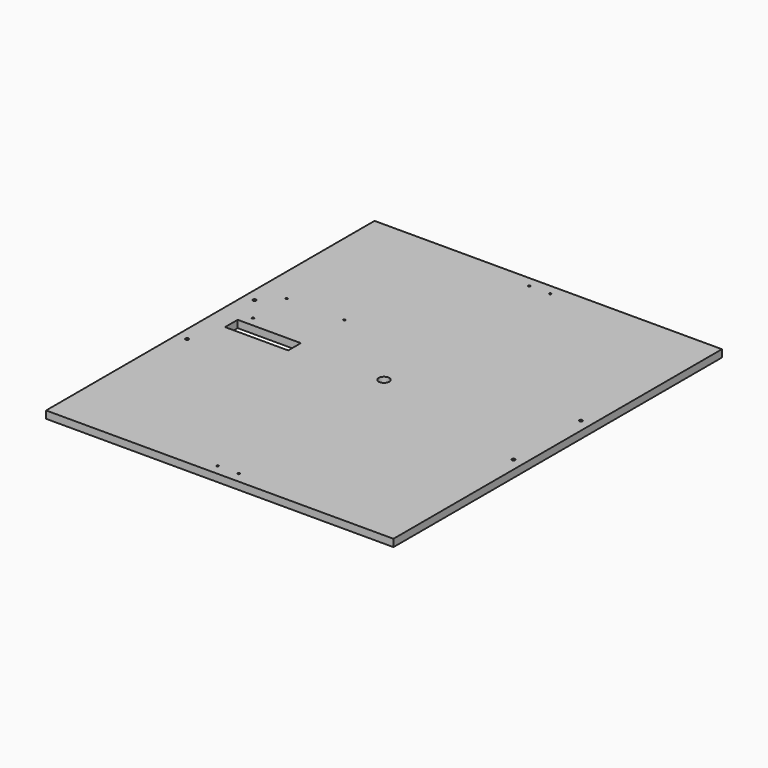
from build123d import *

# Parameters (mm, degrees)
F0_W      = 330
F0_H      = 390
F1_DEPTH  = 7
F2_R      = 1.5
F3_DEPTH  = 25
F4_R      = 1.5
F5_DEPTH  = 25
F7_DEPTH  = 5
F9_DEPTH  = 25
F10_R     = 5
F11_DEPTH = 25
F12_R     = 1
F13_DEPTH = 50
F14_R     = 1
F15_DEPTH = 5


with BuildPart() as f1:
    # F0 (on Top) → F1 (new body)
    with BuildSketch(Plane.XY):
        Rectangle(F0_W, F0_H)
    extrude(amount=F1_DEPTH)

    # F2 (on face) → F3 (cut)
    with BuildSketch(Plane.XY.offset(7)):
        with Locations((-155, 40)):
            Circle(F2_R)
        with Locations((-155, -40)):
            Circle(F2_R)
    extrude(amount=-F3_DEPTH, mode=Mode.SUBTRACT)

    # F4 (on face) → F5 (cut)
    with BuildSketch(Plane.XY.offset(7)):
        with Locations((155, 40)):
            Circle(F4_R)
        with Locations((155, -40)):
            Circle(F4_R)
    extrude(amount=-F5_DEPTH, mode=Mode.SUBTRACT)

    # F6 (on face) → F7 (cut)
    with BuildSketch(Plane.XY.offset(7)):
        with BuildLine():
            Line((-138, 56.771628), (-137, 56.771628))
            ThreePointArc((-137, 56.771628), (-138.707107, 57.478734), (-138, 55.771628))
            Line((-138, 55.771628), (-138, 56.771628))
        make_face()
        with BuildLine():
            ThreePointArc((-136.845755, 16.771628), (-137.195464, 17.531314), (-138, 17.75966))
            Line((-138, 17.75966), (-138, 16.771628))
            Line((-138, 16.771628), (-138.845755, 16.771628))
            ThreePointArc((-138.845755, 16.771628), (-137.845755, 15.771628), (-136.845755, 16.771628))
        make_face()
        with BuildLine():
            Line((-138, 16.771628), (-138, 17.75966))
            ThreePointArc((-138, 17.75966), (-138.605441, 17.421918), (-138.845755, 16.771628))
            Line((-138.845755, 16.771628), (-138, 16.771628))
        make_face()
        with BuildLine():
            ThreePointArc((-138, 55.771628), (-137.292893, 56.064521), (-137, 56.771628))
            Line((-137, 56.771628), (-138, 56.771628))
            Line((-138, 56.771628), (-138, 55.771628))
        make_face()
        with BuildLine():
            ThreePointArc((-82, 56.771628), (-83, 57.771628), (-84, 56.771628))
            ThreePointArc((-84, 56.771628), (-83, 55.771628), (-82, 56.771628))
        make_face()
    extrude(amount=-F7_DEPTH, mode=Mode.SUBTRACT)

    # F8 (on face) → F9 (cut)
    with BuildSketch(Plane.XY.offset(7)):
        Polygon((-145, 7.5), (-145, 0), (-145, -7.5), (-85, -7.5), (-85, 7.5), align=None)
    extrude(amount=-F9_DEPTH, mode=Mode.SUBTRACT)

    # F10 (on face) → F11 (cut)
    with BuildSketch(Plane.XY.offset(7)):
        Circle(F10_R)
    extrude(amount=-F11_DEPTH, mode=Mode.SUBTRACT)

    # F12 (on face) → F13 (cut)
    with BuildSketch(Plane.XY.offset(7)):
        with Locations((10, 185)):
            Circle(F12_R)
        with Locations((-10, 185)):
            Circle(F12_R)
        with Locations((10, -185)):
            Circle(F12_R)
        with Locations((-10, -185)):
            Circle(F12_R)
    extrude(amount=-F13_DEPTH, mode=Mode.SUBTRACT)

    # F14 (on face) → F15 (cut)
    with BuildSketch(Plane(origin=(0, 0, 0), x_dir=(1, 0, 0), z_dir=(0, 0, -1))):
        with Locations((10, 140)):
            Circle(F14_R)
    extrude(amount=-F15_DEPTH, mode=Mode.SUBTRACT)


solid = f1.part
